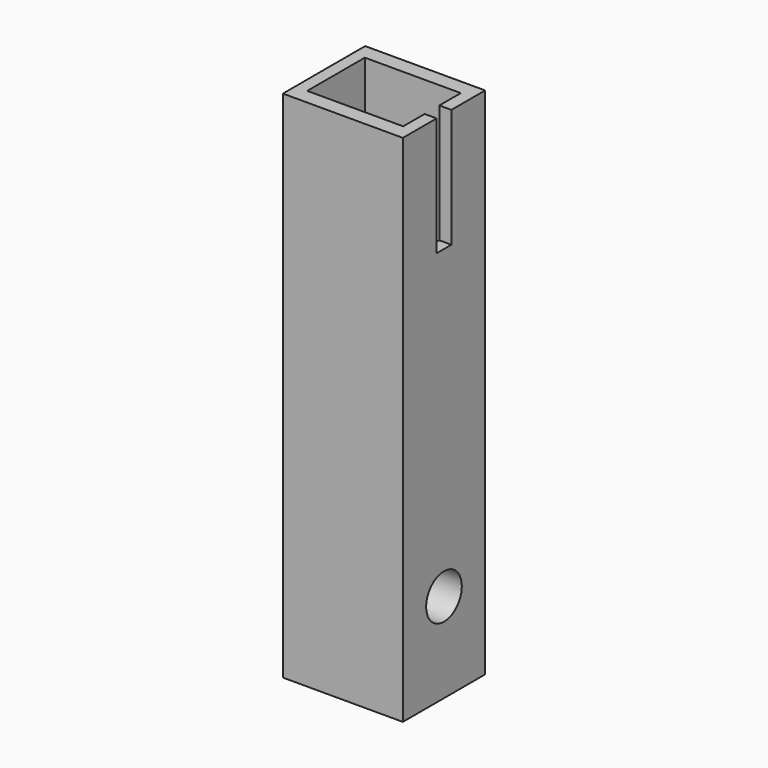
from build123d import *

# Parameters (mm, degrees)
F0_W      = 35
F0_H      = 30
F1_DEPTH  = 150
F2_W      = 28
F2_H      = 21
F3_DEPTH  = 48
F4_W      = 22
F4_H      = 15
F5_DEPTH  = 85.9
F6_R      = 6.5
F7_DEPTH  = 15
F9_W      = 5.382292
F9_H      = 69.969817
F10_DEPTH = 5
F11_R     = 7.5
F12_DEPTH = 133


with BuildPart() as f1:
    # F0 (on Top) → F1 (new body)
    with BuildSketch(Plane.XY):
        Rectangle(F0_W, F0_H)
    extrude(amount=F1_DEPTH)

    # F2 (on face) → F3 (cut)
    with BuildSketch(Plane.XY.offset(150)):
        Rectangle(F2_W, F2_H)
    extrude(amount=-F3_DEPTH, mode=Mode.SUBTRACT)

    # F4 (on face) → F5 (cut)
    with BuildSketch(Plane.XY.offset(150)):
        Rectangle(F4_W, F4_H)
    extrude(amount=-F5_DEPTH, mode=Mode.SUBTRACT)

    # F6 (on face) → F7 (cut)
    with BuildSketch(Plane.YZ.offset(17.5)):
        with Locations((0, 26.118774)):
            Circle(F6_R)
    extrude(amount=-F7_DEPTH, mode=Mode.SUBTRACT)

    # F9 (on face) → F10 (cut)
    with BuildSketch(Plane.YZ.offset(17.5)):
        with Locations((0, 150.352105)):
            Rectangle(F9_W, F9_H)
    extrude(amount=-F10_DEPTH, mode=Mode.SUBTRACT)

    # F11 (on face) → F12 (cut)
    with BuildSketch(Plane.XY.offset(150)):
        Circle(F11_R)
    extrude(amount=-F12_DEPTH, mode=Mode.SUBTRACT)


solid = f1.part
